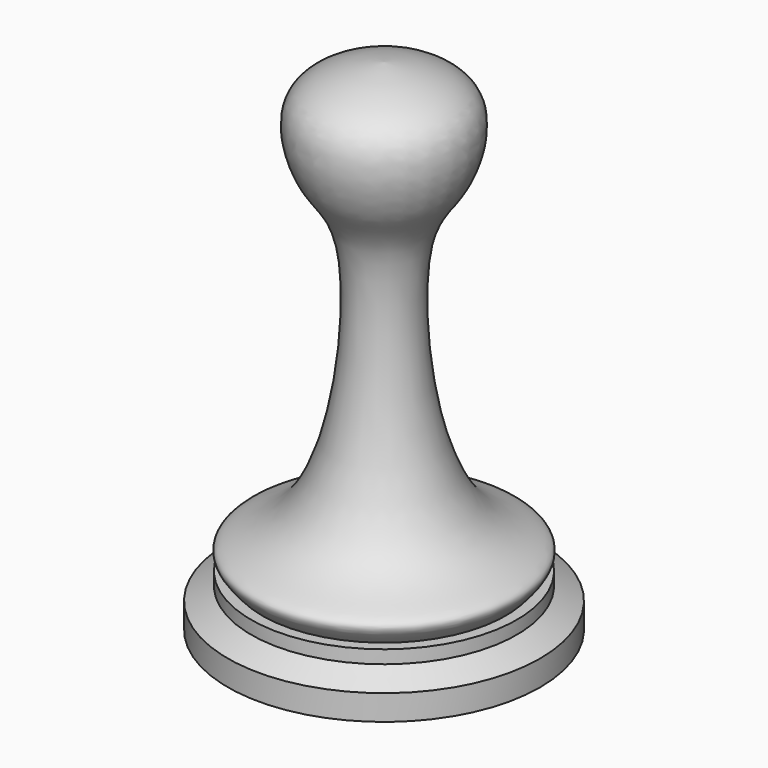
from build123d import *


with BuildPart() as f1:
    # F0 (on Front) → F1 (revolve)
    with BuildSketch(Plane.XZ):
        with BuildLine():
            Line((0, -101.8261858703), (0, 101.3738141297))
            add(Edge.make_bspline(
                [(-49.5162568986, -80.7605460286), (-52.2246272316, -77.7097336238), (-59.4524367445, -69.5680512796), (-18.6345679885, -66.2315883699), (-7.7903198526, 41.5539608196), (-28.9260235007, 55.9860560586), (-37.6003993296, 90.590726386), (-11.6918833444, 100.1359929955), (-3.4536215986, 101.0081787844), (0, 101.3738141297)],
                knots=[0, 0, 0, 0, 0.0837458977, 0.2234921084, 0.4918622436, 0.6312423196, 0.7754150421, 0.905850107, 1, 1, 1, 1], degree=3))
            Line((-49.5162568986, -80.7605460286), (-54.0223158896, -80.7605460286))
            Line((-54.0223158896, -80.7605460286), (-54.0223158896, -86.1181169748))
            Line((-54.0223158896, -86.1181169748), (-63.5, -91.5220379829))
            Line((-63.5, -91.5220379829), (-63.5, -101.8261858703))
            Line((-63.5, -101.8261858703), (0, -101.8261858703))
        make_face()
    revolve(axis=Axis((0, 0, -0.4693174736), (0, 0, -1)))


solid = f1.part
